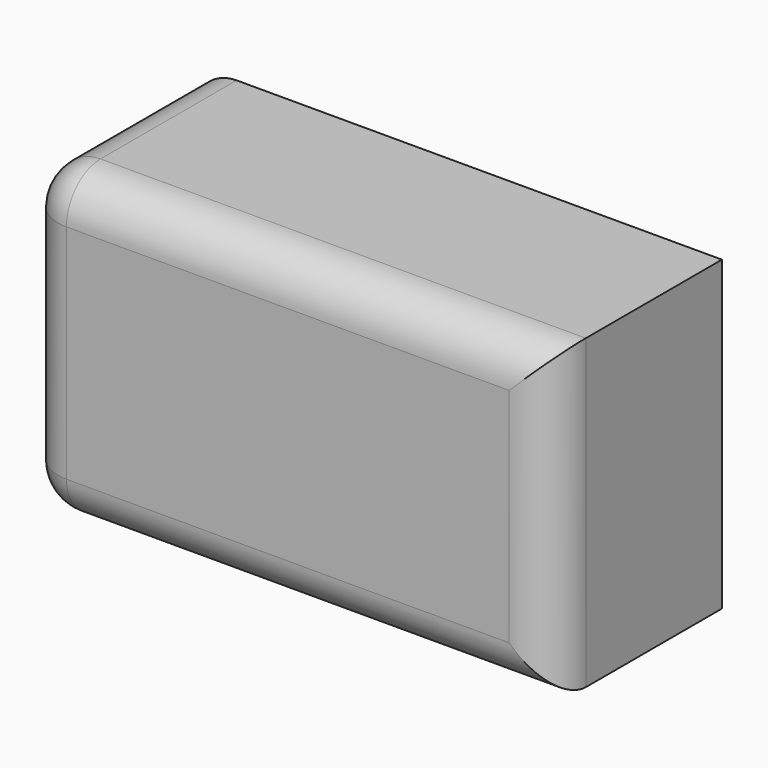
from build123d import *

# Parameters (mm, degrees)
F0_W     = 63.032269
F0_H     = 36.687511
F1_DEPTH = 25.4
F2_R     = 5.08
F3_R     = 5.08


with BuildPart() as f1:
    # F0 (on Front) → F1 (new body)
    with BuildSketch(Plane.XZ):
        with Locations((-2.536901, 1.951464)):
            Rectangle(F0_W, F0_H)
    extrude(amount=F1_DEPTH)

    # F2
    f2_edges = [f1.edges().sort_by_distance(p)[0] for p in [
        (-34.053035, -25.4, 1.951464),
    ]]
    fillet(f2_edges, radius=F2_R)

    # F3
    f3_edges = [f1.edges().sort_by_distance(p)[0] for p in [
        (0.0031, -25.4, -16.392292),
        (28.979234, -25.4, 1.951464),
        (0.0031, -25.4, 20.295219),
    ]]
    fillet(f3_edges, radius=F3_R)


solid = f1.part
